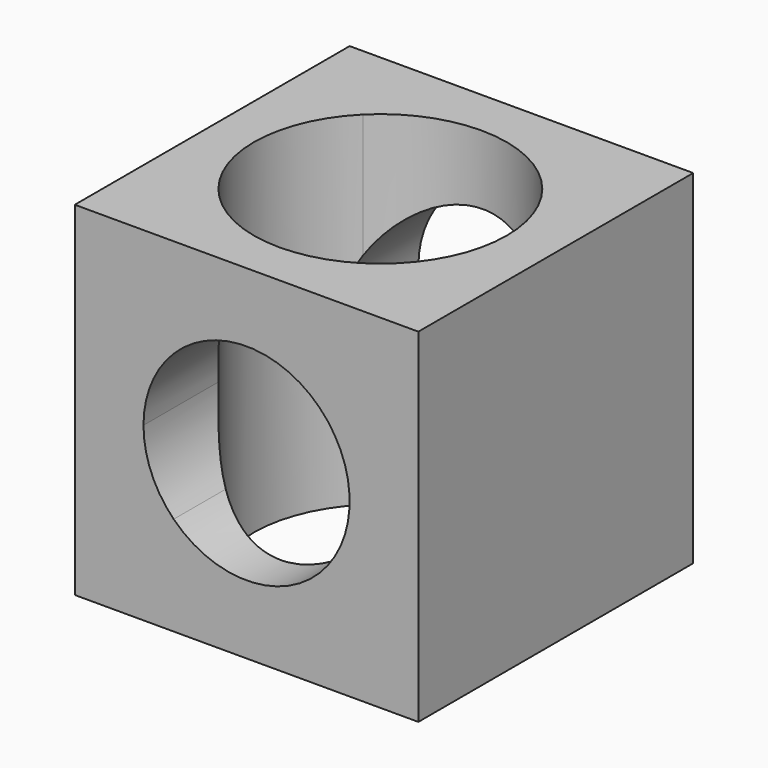
from build123d import *

# Parameters (mm, degrees)
F0_W      = 127
F0_H      = 127
F1_DEPTH  = 127
F4_DEPTH  = 127
F6_DEPTH  = 127
F8_DEPTH  = 127
F10_DEPTH = 127


with BuildPart() as f1:
    # F0 (on Top) → F1 (new body)
    with BuildSketch(Plane.XY):
        with Locations((63.5, 63.5)):
            Rectangle(F0_W, F0_H)
    extrude(amount=F1_DEPTH)

    # F3 (on face) → F4 (cut)
    with BuildSketch(Plane.XY.offset(127)):
        with BuildLine():
            ThreePointArc((95.688511, 95.936173), (62.707134, 109.585316), (29.707732, 95.979811))
            Line((29.707732, 95.979811), (62.676218, 62.838437))
            Line((62.676218, 62.838437), (95.688511, 95.936173))
        make_face()
        with BuildLine():
            Line((62.676218, 62.838437), (29.707732, 95.979811))
            ThreePointArc((29.707732, 95.979811), (15.929338, 62.869353), (29.663924, 29.7407))
            Line((29.663924, 29.7407), (62.676218, 62.838437))
        make_face()
        with BuildLine():
            Line((95.688511, 95.936173), (62.676218, 62.838437))
            Line((62.676218, 62.838437), (95.644703, 29.697063))
            ThreePointArc((95.644703, 29.697063), (105.841284, 44.892719), (109.423107, 62.838437))
            ThreePointArc((109.423107, 62.838437), (105.853143, 80.755602), (95.688511, 95.936173))
        make_face()
        with BuildLine():
            Line((95.644703, 29.697063), (62.676218, 62.838437))
            Line((62.676218, 62.838437), (29.663924, 29.7407))
            ThreePointArc((29.663924, 29.7407), (62.645301, 16.091557), (95.644703, 29.697063))
        make_face()
    extrude(amount=-F4_DEPTH, mode=Mode.SUBTRACT)

    # F5 (on face) → F6 (cut)
    with BuildSketch(Plane.YZ.offset(127)):
        with BuildLine():
            ThreePointArc((90.100624, 90.100624), (63.5, 101.118963), (36.899376, 90.100624))
            Line((36.899376, 90.100624), (63.5, 63.5))
            Line((63.5, 63.5), (90.100624, 90.100624))
        make_face()
        with BuildLine():
            Line((63.5, 63.5), (36.899376, 90.100624))
            ThreePointArc((36.899376, 90.100624), (25.881037, 63.5), (36.899376, 36.899376))
            Line((36.899376, 36.899376), (63.5, 63.5))
        make_face()
        with BuildLine():
            Line((90.100624, 90.100624), (63.5, 63.5))
            Line((63.5, 63.5), (90.100624, 36.899376))
            ThreePointArc((90.100624, 36.899376), (98.25539, 49.103846), (101.118963, 63.5))
            ThreePointArc((101.118963, 63.5), (98.25539, 77.896154), (90.100624, 90.100624))
        make_face()
        with BuildLine():
            Line((90.100624, 36.899376), (63.5, 63.5))
            Line((63.5, 63.5), (36.899376, 36.899376))
            ThreePointArc((36.899376, 36.899376), (63.5, 25.881037), (90.100624, 36.899376))
        make_face()
    extrude(amount=F6_DEPTH, mode=Mode.SUBTRACT)

    # F7 (on face) → F8 (cut)
    with BuildSketch(Plane.YZ.offset(127)):
        with BuildLine():
            ThreePointArc((92.47811, 92.47811), (63.5, 104.481236), (34.52189, 92.47811))
            Line((34.52189, 92.47811), (63.5, 63.5))
            Line((63.5, 63.5), (92.47811, 92.47811))
        make_face()
        with BuildLine():
            Line((63.5, 63.5), (34.52189, 92.47811))
            ThreePointArc((34.52189, 92.47811), (22.518764, 63.5), (34.52189, 34.52189))
            Line((34.52189, 34.52189), (63.5, 63.5))
        make_face()
        with BuildLine():
            Line((92.47811, 92.47811), (63.5, 63.5))
            Line((63.5, 63.5), (92.47811, 34.52189))
            ThreePointArc((92.47811, 34.52189), (101.361725, 47.81716), (104.481236, 63.5))
            ThreePointArc((104.481236, 63.5), (101.361725, 79.18284), (92.47811, 92.47811))
        make_face()
        with BuildLine():
            Line((92.47811, 34.52189), (63.5, 63.5))
            Line((63.5, 63.5), (34.52189, 34.52189))
            ThreePointArc((34.52189, 34.52189), (63.5, 22.518764), (92.47811, 34.52189))
        make_face()
    extrude(amount=F8_DEPTH, mode=Mode.SUBTRACT)

    # F9 (on face) → F10 (cut)
    with BuildSketch(Plane(origin=(0, 127, 0), x_dir=(-1, 0, 0), z_dir=(0, 1, 0))):
        with BuildLine():
            ThreePointArc((-90.440768, 90.440768), (-101.6, 63.5), (-90.440768, 36.559232))
            Line((-90.440768, 36.559232), (-63.5, 63.5))
            Line((-63.5, 63.5), (-90.440768, 90.440768))
        make_face()
        with BuildLine():
            Line((-63.5, 63.5), (-90.440768, 36.559232))
            ThreePointArc((-90.440768, 36.559232), (-63.5, 25.4), (-36.559232, 36.559232))
            Line((-36.559232, 36.559232), (-63.5, 63.5))
        make_face()
        with BuildLine():
            Line((-90.440768, 90.440768), (-63.5, 63.5))
            Line((-63.5, 63.5), (-36.559232, 90.440768))
            ThreePointArc((-36.559232, 90.440768), (-63.5, 101.6), (-90.440768, 90.440768))
        make_face()
        with BuildLine():
            Line((-36.559232, 90.440768), (-63.5, 63.5))
            Line((-63.5, 63.5), (-36.559232, 36.559232))
            ThreePointArc((-36.559232, 36.559232), (-28.30019, 48.919761), (-25.4, 63.5))
            ThreePointArc((-25.4, 63.5), (-28.30019, 78.080239), (-36.559232, 90.440768))
        make_face()
    extrude(amount=-F10_DEPTH, mode=Mode.SUBTRACT)


solid = f1.part
